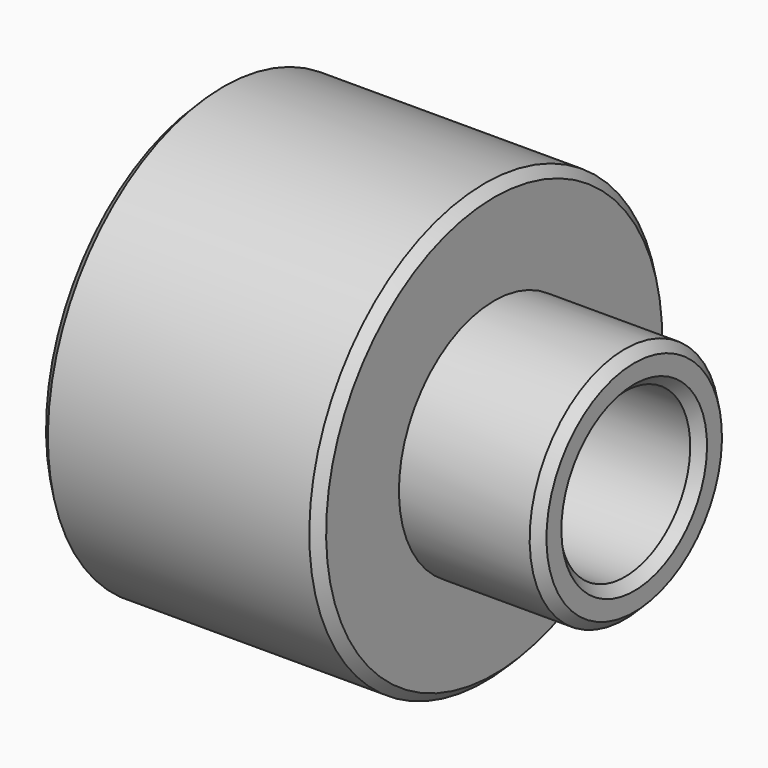
from build123d import *

# Parameters (mm, degrees)
F0_W     = 15
F0_H     = 4
F3_SIZE  = 5
F6_D     = 6.6
F6_DEPTH = 10
F6_TIP   = 1.9828400428
F7_SIZE  = 1


with BuildPart() as f1:
    # F0 (on Front) → F1 (revolve)
    with BuildSketch(Plane.XZ):
        Polygon((-30, 8.75), (0, 8.75), (0, 12.75), (0, 23.5), (-30, 23.5), align=None)
        with Locations((7.5, 10.75)):
            Rectangle(F0_W, F0_H)
    revolve(axis=Axis((-19.2540567368, 0, 0), (-1, 0, 0)))

    # F3
    f3_edges = [f1.edges().sort_by_distance(p)[0] for p in [
        (-30, 0, -8.75),
    ]]
    chamfer(f3_edges, length=F3_SIZE)

    # F6
    with Locations(Plane(origin=(0, 0, -25), x_dir=(1, 0, 0), z_dir=(0, 0, -1))):
        with Locations((-18, 0)):
            Hole(F6_D / 2, depth=F6_DEPTH)
            with Locations((0, 0, -(F6_DEPTH + F6_TIP / 2))):  # 118° drill point
                Cone(0, F6_D / 2, F6_TIP, mode=Mode.SUBTRACT)

    # F7
    f7_edges = [f1.edges().sort_by_distance(p)[0] for p in [
        (-30, 0, -23.5),
        (0, 0, -23.5),
        (15, 0, -12.75),
        (15, 0, -8.75),
    ]]
    chamfer(f7_edges, length=F7_SIZE)


solid = f1.part
